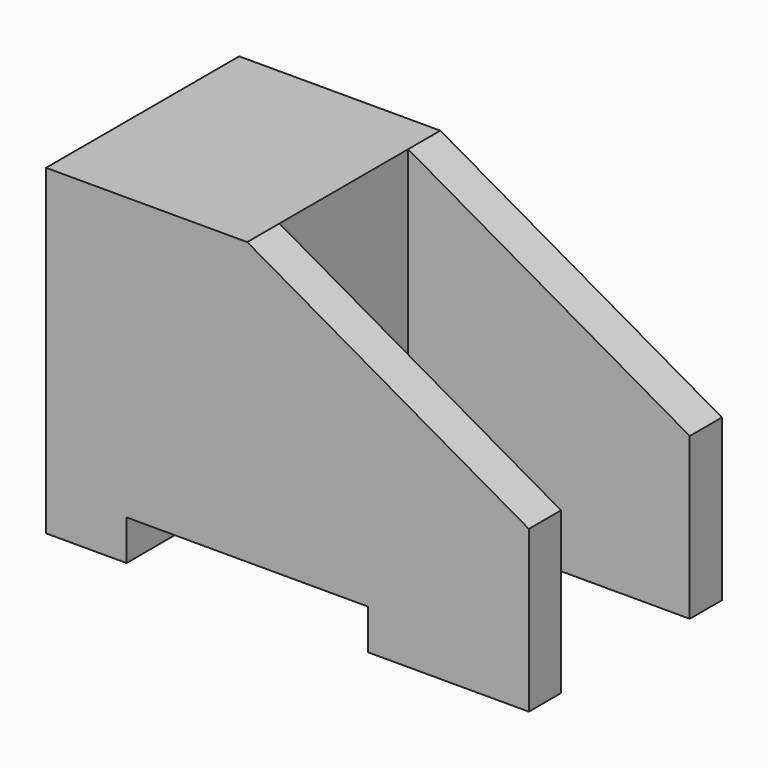
from build123d import *

# Parameters (mm, degrees)
F0_W     = 12.5
F0_H     = 20
F1_DEPTH = 7.5
F3_DEPTH = 2.5
F5_DEPTH = 2.5
F6_W     = 15
F6_H     = 2.5
F7_DEPTH = 15


with BuildPart() as f1:
    # F0 (on Front) → F1 (new body, symmetric)
    with BuildSketch(Plane.XZ):
        with Locations((6.25, 10)):
            Rectangle(F0_W, F0_H)
    extrude(amount=F1_DEPTH, both=True)

    # F2 (on face) → F3 (join)
    with BuildSketch(Plane.XZ.offset(7.5)):
        Polygon((12.5, 20), (12.5, 0), (30, 0), (30, 10), align=None)
    extrude(amount=-F3_DEPTH)

    # F4 (on face) → F5 (join)
    with BuildSketch(Plane(origin=(0, 7.5, 0), x_dir=(-1, 0, 0), z_dir=(0, 1, 0))):
        Polygon((-30, 0), (-12.5, 0), (-12.5, 20), (-30, 10), align=None)
    extrude(amount=-F5_DEPTH)

    # F6 (on face) → F7 (cut, through all)
    with BuildSketch(Plane.XZ.offset(7.5)):
        with Locations((12.5, 1.25)):
            Rectangle(F6_W, F6_H)
    extrude(amount=-F7_DEPTH, mode=Mode.SUBTRACT)


solid = f1.part
